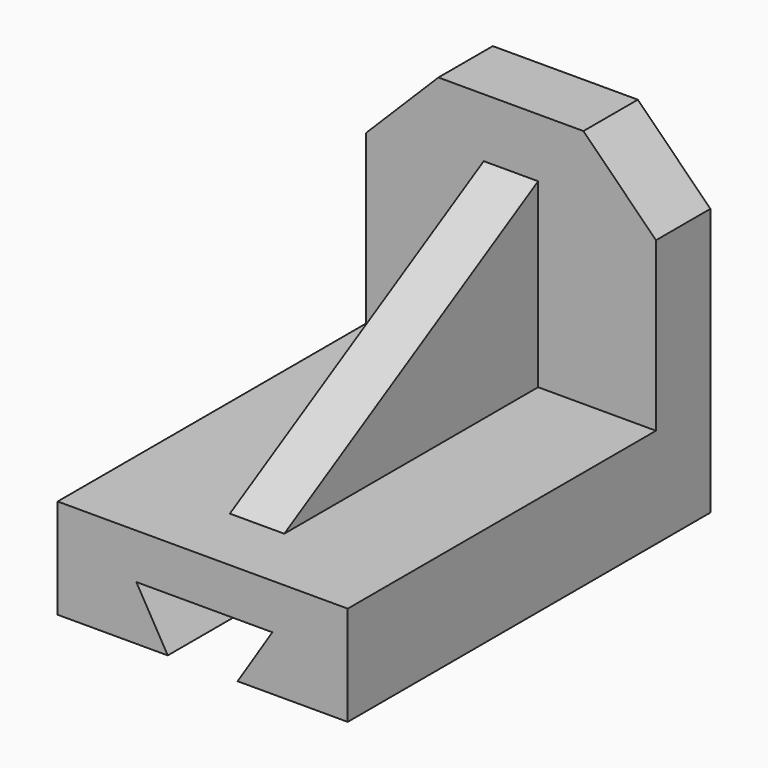
from build123d import *

# Parameters (mm, degrees)
SKETCH_W        = 64
SKETCH_H        = 100
PAD_DEPTH       = 22
PAD001_DEPTH    = 15
POCKET_DEPTH    = 100.001
SKETCH003_W     = 12
SKETCH003_H     = 70
PAD002_DEPTH    = 40
POCKET001_DEPTH = 12


with BuildPart() as part:
    # Sketch → Pad (new body)
    with BuildSketch(Plane.XY):
        Rectangle(SKETCH_W, SKETCH_H)
    extrude(amount=PAD_DEPTH)

    # Sketch001 (on Face1 of Pad) → Pad001 (join)
    with BuildSketch(Plane(origin=(0, 50, 0), x_dir=(-1, 0, 0), z_dir=(0, 1, 0))):
        Polygon((-32, 22), (-32, 59), (-16, 75), (16, 75), (32, 59), (32, 22), align=None)
    extrude(amount=-PAD001_DEPTH)

    # Sketch002 (on Face6 of Pad001) → Pocket (cut, through all)
    with BuildSketch(Plane.XZ.offset(50)):
        Polygon((-7.707092, 0), (-14.635295, 12), (15.364705, 12), (7.707092, 0), align=None)
    extrude(amount=-POCKET_DEPTH, mode=Mode.SUBTRACT)

    # Sketch003 (on Face12 of Pocket) → Pad002 (join)
    with BuildSketch(Plane.XY.offset(22)):
        Rectangle(SKETCH003_W, SKETCH003_H)
    extrude(amount=PAD002_DEPTH)

    # Sketch004 (on Face20 of Pad002) → Pocket001 (cut)
    with BuildSketch(Plane(origin=(-6, 0, 0), x_dir=(0, -1, 0), z_dir=(-1, 0, 0))):
        Polygon((-35, 62), (35, 22), (35, 62), align=None)
    extrude(amount=-POCKET001_DEPTH, mode=Mode.SUBTRACT)


solid = part.part
